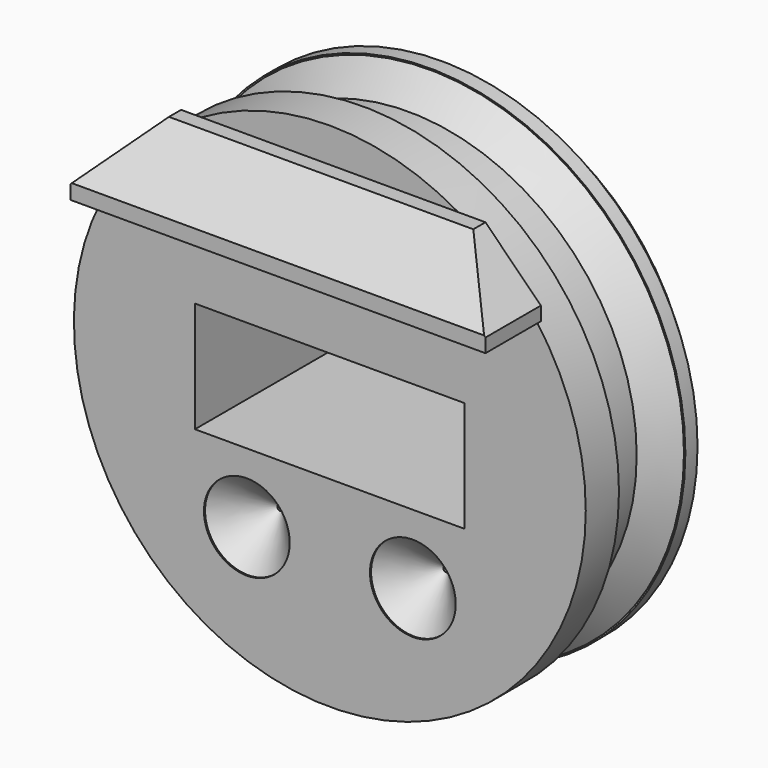
from build123d import *

# Parameters (mm, degrees)
BOX005009014_W         = 30
BOX005009014_H         = 5
BOX005009014_DEPTH     = 5
CHAMFER016_SIZE        = 4
CHAMFER017_SIZE        = 4
CHAMFER019_SIZE        = 3.9
BOX005009012_W         = 19.5
BOX005009012_H         = 400
BOX005009012_DEPTH     = 8
CYLINDER023_R          = 3.1
CYLINDER023_DEPTH      = 6
CYLINDER023_ROLL_ANGLE = 90
CHAMFER011_SIZE        = 2.9
CHAMFER009_SIZE        = 2.9
CYLINDER018_R          = 18.5
CYLINDER018_DEPTH      = 3
CYLINDER018_ROLL_ANGLE = 90
CYLINDER017_R          = 16.5
CYLINDER017_DEPTH      = 10
CYLINDER017_ROLL_ANGLE = 90
CYLINDER016_R          = 18.5
CYLINDER016_DEPTH      = 3
CYLINDER016_ROLL_ANGLE = 90
CHAMFER023_SIZE        = 1.9
CHAMFER024_SIZE        = 1.9
CHAMFER025_SIZE        = 1.9


with BuildPart() as chamfer019:
    # Box005009014 → Box005009014 (new body)
    with BuildSketch(Plane(origin=(-7, 261, 13), x_dir=(1, 0, 0), z_dir=(0, 0, 1))):
        with Locations((15, 2.5)):
            Rectangle(BOX005009014_W, BOX005009014_H)
    extrude(amount=BOX005009014_DEPTH)

    # Chamfer016
    chamfer016_edges = [chamfer019.edges().sort_by_distance(p)[0] for p in [
        (-7, 263.5, 18),
    ]]
    chamfer(chamfer016_edges, length=CHAMFER016_SIZE)

    # Chamfer017
    chamfer017_edges = [chamfer019.edges().sort_by_distance(p)[0] for p in [
        (23, 263.5, 18),
    ]]
    chamfer(chamfer017_edges, length=CHAMFER017_SIZE)

    # Chamfer019
    chamfer019_edges = [chamfer019.edges().sort_by_distance(p)[0] for p in [
        (8, 266, 18),
    ]]
    chamfer(chamfer019_edges, length=CHAMFER019_SIZE)


with BuildPart() as part_mirroring005:
    # Part__Mirroring005: instance of Chamfer019
    add(chamfer019.part.mirror(Plane(origin=(0, 250, 0), x_dir=(1, 0, 0), z_dir=(0, 1, 0))))


with BuildPart() as part_mirroring005_1:
    # Part__Mirroring005 placement: moved
    add(part_mirroring005.part.moved(Location((0, 86, 0))))


with BuildPart() as scale_hole001:
    # Box005009012 → Box005009012 (new body)
    with BuildSketch(Plane(origin=(-2, 0, -2), x_dir=(1, 0, 0), z_dir=(0, 0, 1))):
        with Locations((9.75, 200)):
            Rectangle(BOX005009012_W, BOX005009012_H)
    extrude(amount=BOX005009012_DEPTH)


with BuildPart() as lug_hole:
    # Cylinder023 → Cylinder023 (new body)
    with BuildSketch(Plane.XY):
        Circle(CYLINDER023_R)
    extrude(amount=CYLINDER023_DEPTH)


with BuildPart() as lug_hole_1:
    # Cylinder023 roll: moved
    add(lug_hole.part.rotate(Axis((0, 0, 0), (1, 0, 0)), CYLINDER023_ROLL_ANGLE))


with BuildPart() as lug_hole_2:
    # Cylinder023 placement: moved
    add(lug_hole_1.part.moved(Location((7.75, 328, -7))))


with BuildPart() as chamfer011:
    # Chamfer011 base: copy of lug-hole
    add(lug_hole_2.part)

    # Chamfer011
    chamfer011_edges = [chamfer011.edges().sort_by_distance(p)[0] for p in [
        (4.65, 328, -7),
    ]]
    chamfer(chamfer011_edges, length=CHAMFER011_SIZE)


with BuildPart() as chamfer011_1:
    # Chamfer011 placement: moved
    add(chamfer011.part.moved(Location((6, 0, 0))))


with BuildPart() as lug_holes:
    # Chamfer009 base: copy of lug-hole
    add(lug_hole_2.part)

    # Chamfer009
    chamfer009_edges = [lug_holes.edges().sort_by_distance(p)[0] for p in [
        (4.65, 328, -7),
    ]]
    chamfer(chamfer009_edges, length=CHAMFER009_SIZE)


with BuildPart() as lug_holes_1:
    # Chamfer009 placement: moved
    add(lug_holes.part.moved(Location((-6, 0, 0))))

    # Fusion013: union Chamfer011
    add(chamfer011_1.part)


with BuildPart() as end_cheek001:
    # Cylinder018 → Cylinder018 (new body)
    with BuildSketch(Plane.XY):
        Circle(CYLINDER018_R)
    extrude(amount=CYLINDER018_DEPTH)


with BuildPart() as end_cheek001_1:
    # Cylinder018 roll: moved
    add(end_cheek001.part.rotate(Axis((0, 0, 0), (1, 0, 0)), CYLINDER018_ROLL_ANGLE))


with BuildPart() as end_cheek001_2:
    # Cylinder018 placement: moved
    add(end_cheek001_1.part.moved(Location((7.75, 486, 2))))


with BuildPart() as cable_tie_cyl001:
    # Cylinder017 → Cylinder017 (new body)
    with BuildSketch(Plane.XY):
        Circle(CYLINDER017_R)
    extrude(amount=CYLINDER017_DEPTH)


with BuildPart() as cable_tie_cyl001_1:
    # Cylinder017 roll: moved
    add(cable_tie_cyl001.part.rotate(Axis((0, 0, 0), (1, 0, 0)), CYLINDER017_ROLL_ANGLE))


with BuildPart() as cable_tie_cyl001_2:
    # Cylinder017 placement: moved
    add(cable_tie_cyl001_1.part.moved(Location((7.75, 485, 2))))


with BuildPart() as slider_end_l:
    # Cylinder016 → Cylinder016 (new body)
    with BuildSketch(Plane.XY):
        Circle(CYLINDER016_R)
    extrude(amount=CYLINDER016_DEPTH)


with BuildPart() as slider_end_l_1:
    # Cylinder016 roll: moved
    add(slider_end_l.part.rotate(Axis((0, 0, 0), (1, 0, 0)), CYLINDER016_ROLL_ANGLE))


with BuildPart() as slider_end_l_2:
    # Cylinder016 placement: moved
    add(slider_end_l_1.part.moved(Location((7.75, 477, 2))))

    # Fusion010: union end-cheek001, cable-tie-cyl001
    add(end_cheek001_2.part)
    add(cable_tie_cyl001_2.part)


with BuildPart() as slider_end_l_3:
    # Fusion010 placement: moved
    add(slider_end_l_2.part.moved(Location((0, -149, 0))))

    # Cut016: cut lug-holes
    add(lug_holes_1.part, mode=Mode.SUBTRACT)

    # Cut019: cut scale-hole001
    add(scale_hole001.part, mode=Mode.SUBTRACT)

    # Fusion021: union Part__Mirroring005
    add(part_mirroring005_1.part)

    # Chamfer023
    chamfer023_edges = [slider_end_l_3.edges().sort_by_distance(p)[0] for p in [
        (-8.75, 328, 2),
    ]]
    chamfer(chamfer023_edges, length=CHAMFER023_SIZE)

    # Chamfer024
    chamfer024_edges = [slider_end_l_3.edges().sort_by_distance(p)[0] for p in [
        (-10.75, 337, 2),
    ]]
    chamfer(chamfer024_edges, length=CHAMFER024_SIZE)

    # Chamfer025
    chamfer025_edges = [slider_end_l_3.edges().sort_by_distance(p)[0] for p in [
        (-8.75, 334, 2),
    ]]
    chamfer(chamfer025_edges, length=CHAMFER025_SIZE)


solid = slider_end_l_3.part
